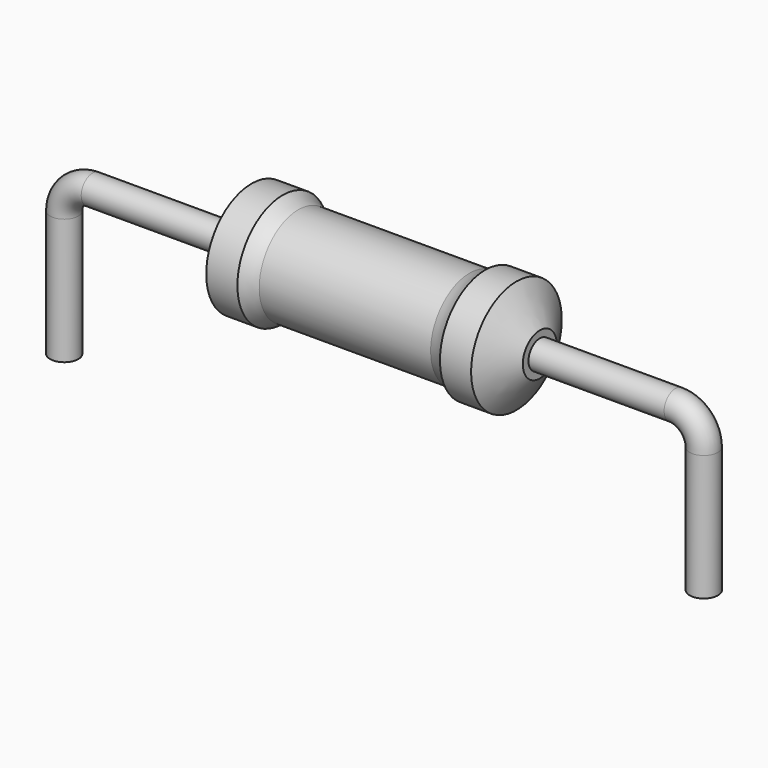
from build123d import *

# Parameters (mm, degrees)
SKETCH_R = 0.45


with BuildPart() as revolution:
    # Sketch002 → Revolution (revolve)
    with BuildSketch(Plane.XZ):
        with BuildLine():
            Line((5.9525, 3.7), (6.9425, 3.7))
            ThreePointArc((6.9425, 3.7), (7.179758, 3.555766), (7.4375, 3.4525))
            Line((7.4375, 3.4525), (12.8825, 3.4525))
            ThreePointArc((12.8825, 3.4525), (13.140242, 3.555766), (13.3775, 3.7))
            Line((13.3775, 3.7), (14.3675, 3.7))
            ThreePointArc((15.11, 2.575), (14.739901, 3.13826), (14.3675, 3.7))
            Line((15.11, 1.9), (15.11, 2.575))
            Line((5.21, 1.9), (15.11, 1.9))
            Line((5.21, 1.9), (5.21, 2.575))
            ThreePointArc((5.9525, 3.7), (5.580099, 3.13826), (5.21, 2.575))
        make_face()
    revolve(axis=Axis((5.21, 0, 1.9), (1, 0, 0)))


with BuildPart() as sweep_body:
    # Sweep: sweep along a path in Sketch001
    with BuildLine(Plane.XZ) as sweep_path:
        Line((0, -3), (0, 1))
        ThreePointArc((0, 1), (0.263601, 1.636393), (0.899992, 1.9))
        Line((0.899992, 1.9), (19.42, 1.9))
        ThreePointArc((19.42, 1.9), (20.056396, 1.636396), (20.32, 1))
        Line((20.32, 1), (20.32, -3))
    # Sketch → Sweep (sweep)
    with BuildSketch(Plane.XY.offset(-2)):
        Circle(SKETCH_R)
    sweep(path=sweep_path.line)


solid = Compound([revolution.part, sweep_body.part])
